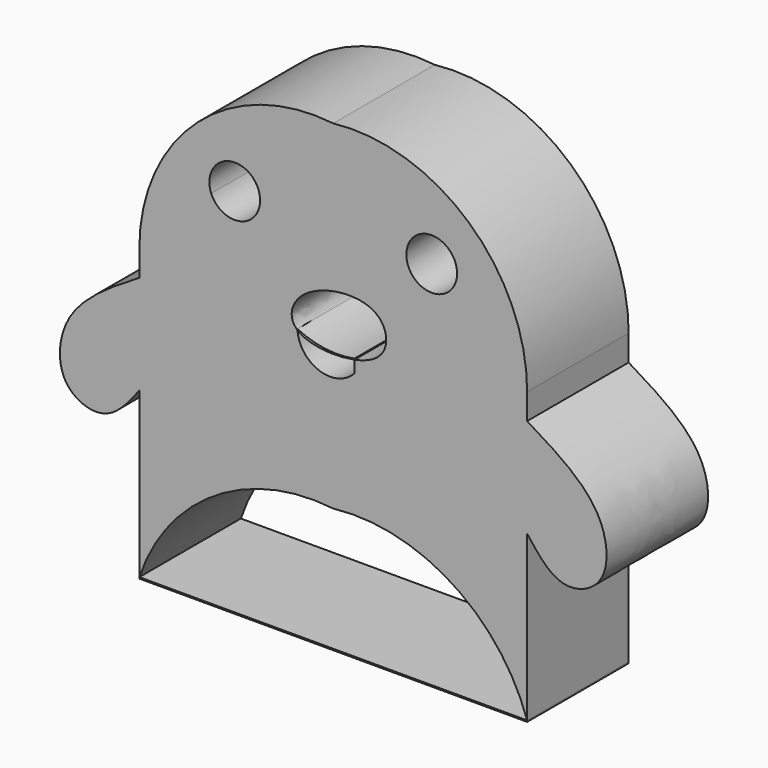
from build123d import *

# Parameters (mm, degrees)
F1_DEPTH = 25.4


with BuildPart() as f1:
    # F0 (on Front) → F1 (new body)
    with BuildSketch(Plane.XZ):
        with BuildLine():
            add(Edge.make_bspline(
                [(-38.8101190329, 19.8498107493), (-44.4914015421, 16.400660606), (-54.6677833754, 10.2225012202), (-55.6160392018, -4.3392453121), (-45.2407556156, -8.3519283639), (-41.0246283015, -2.876141815), (-38.8101190329, 0)],
                knots=[0, 0, 0, 0, 0.3147460153, 0.5637768632, 0.7708749979, 1, 1, 1, 1], degree=3))
            Line((-38.8101190329, 0), (-38.8101190329, 19.8498107493))
        make_face()
        with BuildLine():
            Line((-38.8101190329, 0), (-38.8101190329, -32.8855216503))
            ThreePointArc((-38.8101190329, -32.8855216503), (-23.781091994, -13.6575199069), (0, -8.1759719178))
            ThreePointArc((0, -8.1759719178), (23.781091994, -13.6575199069), (38.8101190329, -32.8855216503))
            Line((38.8101190329, -32.8855216503), (38.8101190329, 0))
            Line((38.8101190329, 0), (38.8101190329, 19.8498107493))
            Line((38.8101190329, 19.8498107493), (38.8101190329, 25.0159613788))
            ThreePointArc((38.8101190329, 25.0159613788), (27.1636731374, 51.0353532928), (0, 59.6830882132))
            ThreePointArc((0, 59.6830882132), (-27.1636731374, 51.0353532928), (-38.8101190329, 25.0159613788))
            Line((-38.8101190329, 25.0159613788), (-38.8101190329, 19.8498107493))
            Line((-38.8101190329, 19.8498107493), (-38.8101190329, 0))
        make_face()
        with BuildLine():
            ThreePointArc((-24.4305338711, 39.3942371011), (-22.8733460672, 45.2731587171), (-16.7959909886, 45.5018691719))
            ThreePointArc((-16.7959909886, 45.5018691719), (-16.5444679316, 37.3620581524), (-24.4305338711, 39.3942371011))
        make_face(mode=Mode.SUBTRACT)
        with BuildLine():
            add(Edge.make_bspline(
                [(-7.1690157056, 20.9322031587), (-9.1556315433, 22.6596609859), (-8.4263815676, 25.5454906165), (-5.9667392634, 27.5447238237)],
                knots=[0.8032541264, 0.8032541264, 0.8032541264, 0.8032541264, 1, 1, 1, 1], degree=3))
            add(Edge.make_bspline(
                [(-5.9667392634, 27.5447238237), (-2.3532911376, 30.4817872629), (10.2919108606, 32.243250445), (11.6652255459, 22.0177812438), (6.2072312879, 19.8203238219), (4.2526121251, 19.4223705445)],
                knots=[0, 0, 0, 0, 0.2890383723, 0.4974038767, 0.5949797049, 0.5949797049, 0.5949797049, 0.5949797049], degree=3))
            Line((4.2526121251, 19.4223705445), (4.2526121251, 17.0248039067))
            ThreePointArc((4.2526121251, 17.0248039067), (-2.7503606956, 15.2014239043), (-7.1690157056, 20.9322031587))
        make_face(mode=Mode.SUBTRACT)
        with BuildLine():
            ThreePointArc((16.7959909886, 45.5018691719), (22.8733460672, 45.2731587171), (24.4305338711, 39.3942371011))
            ThreePointArc((24.4305338711, 39.3942371011), (16.5444679316, 37.3620581524), (16.7959909886, 45.5018691719))
        make_face(mode=Mode.SUBTRACT)
        with BuildLine():
            Line((38.8101190329, 19.8498107493), (38.8101190329, 0))
            add(Edge.make_bspline(
                [(38.8101190329, 19.8498107493), (44.4914015421, 16.400660606), (54.6677833754, 10.2225012202), (55.6160392018, -4.3392453121), (45.2407556156, -8.3519283639), (41.0246283015, -2.876141815), (38.8101190329, 0)],
                knots=[0, 0, 0, 0, 0.3147460153, 0.5637768632, 0.7708749979, 1, 1, 1, 1], degree=3))
        make_face()
    extrude(amount=F1_DEPTH)


with BuildPart() as f1b:
    # F0 (on Front) → F1, piece 2 (new body)
    with BuildSketch(Plane.XZ):
        Polygon((0, -32.8855216503), (-38.8101190329, -32.8855216503), (-38.8101190329, -33.1550724804), (38.8164743781, -33.1550724804), (38.8101190329, -32.8855216503), align=None)
    extrude(amount=F1_DEPTH)


with BuildPart() as f1c:
    # F0 (on Front) → F1, piece 3 (new body)
    with BuildSketch(Plane.XZ):
        with BuildLine():
            add(Edge.make_bspline(
                [(4.2526121251, 19.4223705445), (0.0805012352, 18.5729441018), (-5.0659918564, 19.103522978), (-7.1690157056, 20.9322031587)],
                knots=[0.5949797049, 0.5949797049, 0.5949797049, 0.5949797049, 0.8032541264, 0.8032541264, 0.8032541264, 0.8032541264], degree=3))
            Line((4.2526121251, 19.4223705445), (4.2526121251, 19.6319073439))
            ThreePointArc((4.2526121251, 19.6319073439), (-1.581830803, 19.4473102325), (-7.1690157056, 21.1379211396))
            Line((-7.1690157056, 21.1379211396), (-7.1690157056, 20.9322031587))
        make_face()
    extrude(amount=F1_DEPTH)


solid = Compound([f1.part, f1b.part, f1c.part])
